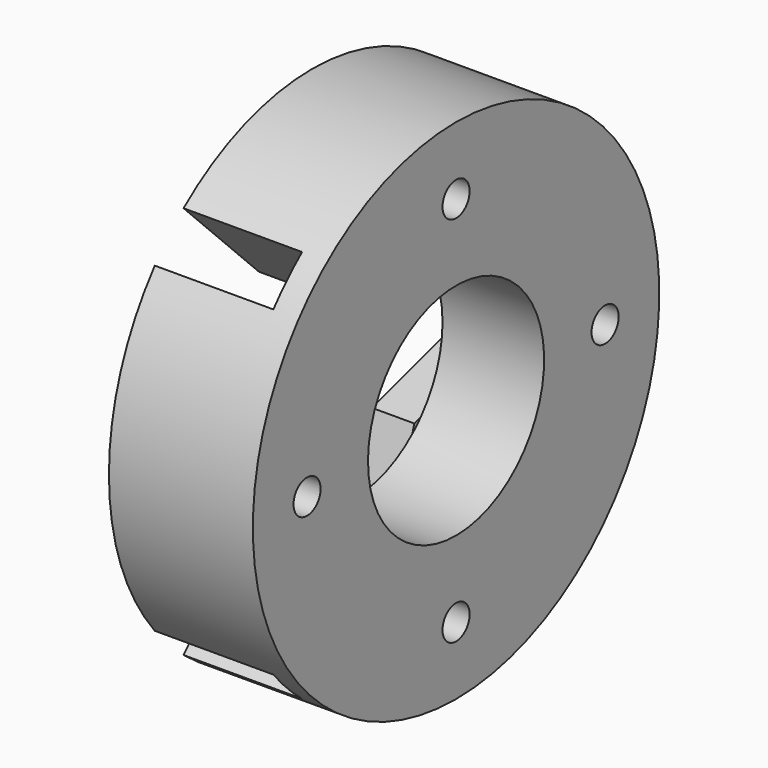
from build123d import *

# Parameters (mm, degrees)
SKETCH075_R             = 6.5
SKETCH075_R_2           = 2.5
PAD039_DEPTH            = 6
SKETCH076_R             = 5
SKETCH076_R_2           = 2.522437
PAD040_DEPTH            = 7
SKETCH077_R             = 6.5
SKETCH077_R_2           = 2.522437
PAD041_DEPTH            = 1
SKETCH078_R             = 1
PAD042_DEPTH            = 7
BODY025_ROLL_ANGLE      = 135
BODY025_PLACEMENT_ANGLE = 180
SKETCH082_R             = 15
PAD043_DEPTH            = 8.5
POCKET027_DEPTH         = 2.5
POLARPATTERN019_COUNT   = 4
SKETCH079_R             = 1
HOLE007_DEPTH           = 25
POLARPATTERN018_COUNT   = 4
SKETCH080_R             = 4
POCKET026_DEPTH         = 6.001
BODY026_PLACEMENT_ANGLE = 90
POCKET028_DEPTH         = 7
POLARPATTERN020_COUNT   = 2
POLARPATTERN020_ANGLE   = 90


with BuildPart() as polea006:
    # Sketch075 → Pad039 (new body)
    with BuildSketch(Plane.YZ):
        Circle(SKETCH075_R)
        Circle(SKETCH075_R_2, mode=Mode.SUBTRACT)
    extrude(amount=PAD039_DEPTH)

    # Sketch076 (on Face3 of Pad039) → Pad040 (join)
    with BuildSketch(Plane(origin=(0, 0, 0), x_dir=(0, 1, 0), z_dir=(-1, 0, 0))):
        Circle(SKETCH076_R)
        Circle(SKETCH076_R_2, mode=Mode.SUBTRACT)
    extrude(amount=PAD040_DEPTH)

    # Sketch077 (on Face6 of Pad040) → Pad041 (join)
    with BuildSketch(Plane(origin=(-7, 0, 0), x_dir=(0, 1, 0), z_dir=(-1, 0, 0))):
        Circle(SKETCH077_R)
        Circle(SKETCH077_R_2, mode=Mode.SUBTRACT)
    extrude(amount=PAD041_DEPTH)

    # Sketch078 → Pad042 (join)
    with BuildSketch(Plane.XZ):
        with Locations((3, 0)):
            Circle(SKETCH078_R)
    extrude(amount=PAD042_DEPTH)


with BuildPart() as polea006_1:
    # Body025 roll: moved
    add(polea006.part.rotate(Axis((0, 0, 0), (1, 0, 0)), BODY025_ROLL_ANGLE))


with BuildPart() as polea006_2:
    # Body025 placement: moved
    add(polea006_1.part.rotate(Axis((0, 0, 0), (0, 0, 1)), BODY025_PLACEMENT_ANGLE))


with BuildPart() as body027:
    # Sketch082 → Pad043 (new body)
    with BuildSketch(Plane.XY):
        Circle(SKETCH082_R)
    extrude(amount=PAD043_DEPTH)

    # Sketch081 (on Face3 of Pad043) → Pocket027 (cut)
    with BuildSketch(Plane.XY.offset(8.5)):
        with BuildLine():
            ThreePointArc((-5.26869, 1.578261), (0, -5.5), (5.26869, 1.578261))
            Line((2.107476, 12.131304), (5.26869, 1.578261))
            ThreePointArc((2.107476, 12.131304), (0, 13.7), (-2.107476, 12.131304))
            Line((-2.107476, 12.131304), (-5.26869, 1.578261))
        make_face()
    pocket027 = extrude(amount=-POCKET027_DEPTH, mode=Mode.SUBTRACT)

    # PolarPattern019: Pocket027 ×4 about axis
    polarpattern019_axis = Axis((0, 0, 8.5), (0, 0, 1))
    for i in range(1, POLARPATTERN019_COUNT):
        add(pocket027.rotate(polarpattern019_axis, i * 360 / POLARPATTERN019_COUNT), mode=Mode.SUBTRACT)

    # Sketch079 (on Face21 of PolarPattern019) → Hole007 (cut)
    with BuildSketch(Plane.XY.offset(6)):
        with Locations((0, 11)):
            Circle(SKETCH079_R)
    hole007 = extrude(amount=-HOLE007_DEPTH, mode=Mode.SUBTRACT)

    # PolarPattern018: Hole007 ×4 about axis
    polarpattern018_axis = Axis((0, 0, 6), (0, 0, 1))
    for i in range(1, POLARPATTERN018_COUNT):
        add(hole007.rotate(polarpattern018_axis, i * 360 / POLARPATTERN018_COUNT), mode=Mode.SUBTRACT)

    # Sketch080 (on Face25 of PolarPattern018) → Pocket026 (cut, through all)
    with BuildSketch(Plane.XY.offset(6)):
        Circle(SKETCH080_R)
    extrude(amount=-POCKET026_DEPTH, mode=Mode.SUBTRACT)


with BuildPart() as body027_1:
    # Body026 placement: moved
    add(body027.part.moved(Location((0, 0, 0))).rotate(Axis((0, 0, 0), (0, -1, 0)), BODY026_PLACEMENT_ANGLE))

    # Cut004: cut polea006
    add(polea006_2.part, mode=Mode.SUBTRACT)

    # Sketch083 (on Face3 of BaseFeature004) → Pocket028 (cut)
    with BuildSketch(Plane(origin=(-8.5, 0, 0), x_dir=(0, -1, 0), z_dir=(-1, 0, 0))):
        Polygon((2.474874, -4.596194), (4.596194, -2.474874), (12.374369, -10.253048), (10.253048, -12.374369), align=None)
    pocket028 = extrude(amount=-POCKET028_DEPTH, mode=Mode.SUBTRACT)

    # PolarPattern020: Pocket028 ×2 about axis
    polarpattern020_axis = Axis((-8.5, 0, 0), (-1, 0, 0))
    for i in range(1, POLARPATTERN020_COUNT):
        add(pocket028.rotate(polarpattern020_axis, i * POLARPATTERN020_ANGLE / (POLARPATTERN020_COUNT - 1)), mode=Mode.SUBTRACT)


solid = body027_1.part
